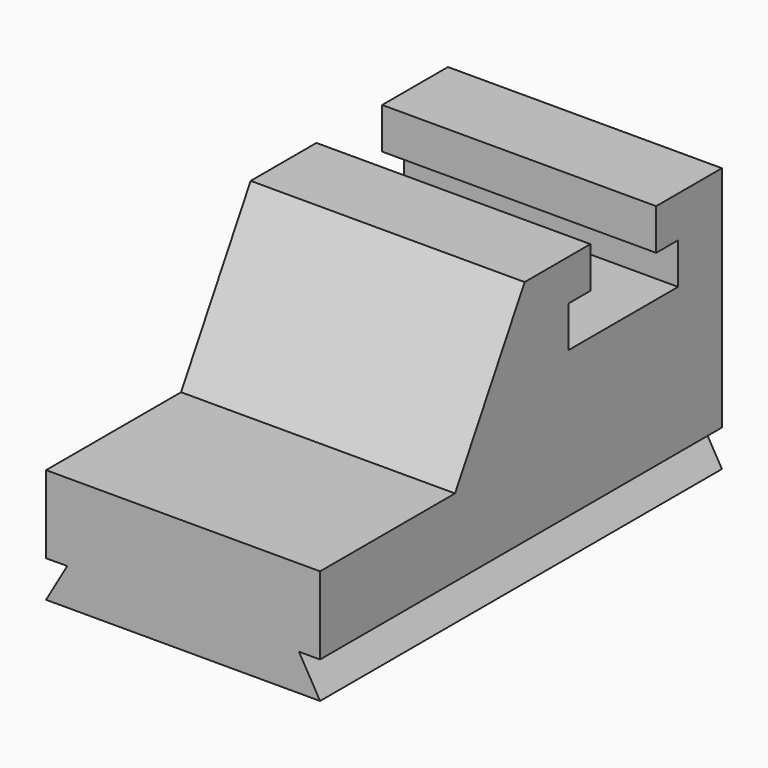
from build123d import *

# Parameters (mm, degrees)
F1_DEPTH = 1524
F0_W     = 2794
F0_H     = 203.2
F2_DEPTH = 1524
F4_DEPTH = 2794.001


with BuildPart() as f1:
    # F0 (on Right) → F1 (new body)
    with BuildSketch(Plane.YZ):
        Polygon((-221.185034, 572.048152), (-221.185034, 140.248152), (2572.814966, 140.248152), (2572.814966, 953.048152), (2572.814966, 1181.648152), (2572.814966, 1410.248152), (2115.614966, 1410.248152), (2115.614966, 1181.648152), (2268.014966, 1181.648152), (2268.014966, 953.048152), (1506.014966, 953.048152), (1506.014966, 1181.648152), (1658.414966, 1181.648152), (1658.414966, 1410.248152), (1201.214966, 1410.248152), (717.279971, 572.048152), align=None)
    extrude(amount=F1_DEPTH)

    # F0 (on Right) → F2 (join)
    with BuildSketch(Plane.YZ):
        with Locations((1175.814966, 38.648152)):
            Rectangle(F0_W, F0_H)
        Polygon((-221.185034, 572.048152), (-221.185034, 140.248152), (2572.814966, 140.248152), (2572.814966, 953.048152), (2572.814966, 1181.648152), (2572.814966, 1410.248152), (2115.614966, 1410.248152), (2115.614966, 1181.648152), (2268.014966, 1181.648152), (2268.014966, 953.048152), (1506.014966, 953.048152), (1506.014966, 1181.648152), (1658.414966, 1181.648152), (1658.414966, 1410.248152), (1201.214966, 1410.248152), (717.279971, 572.048152), align=None)
    extrude(amount=F2_DEPTH)

    # F3 (on face) → F4 (cut, through all)
    with BuildSketch(Plane.XZ.offset(221.185034)):
        Polygon((0, 140.248152), (0, -62.951848), (117.59745, 140.73291), align=None)
        Polygon((1406.682425, 140.248152), (1524, -62.951848), (1524, 140.248152), align=None)
    extrude(amount=-F4_DEPTH, mode=Mode.SUBTRACT)


solid = f1.part
